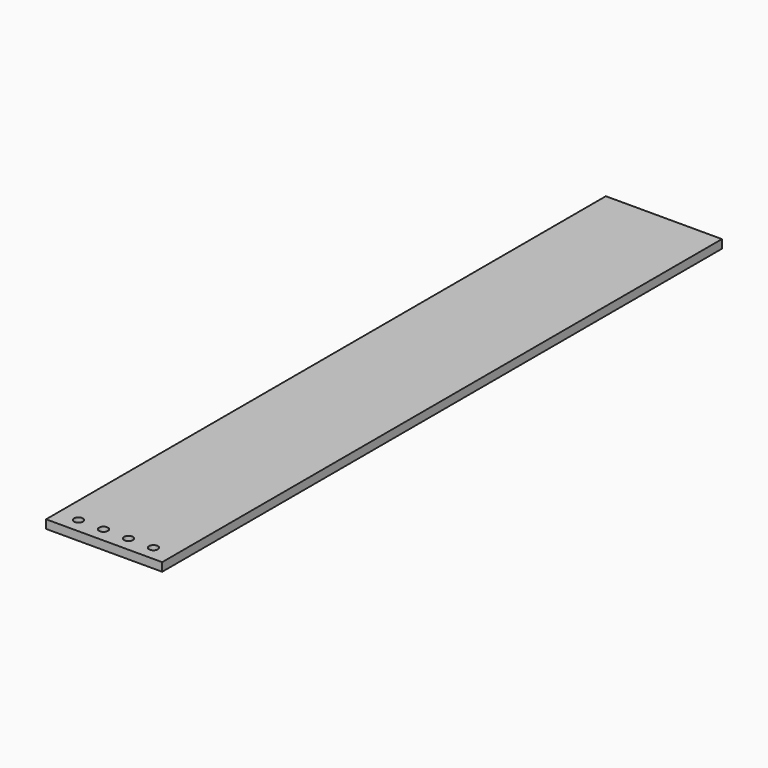
from build123d import *

# Parameters (mm, degrees)
F0_W     = 130.175
F0_H     = 9.525
F1_DEPTH = 784.5
F2_R     = 5
F3_DEPTH = 25


with BuildPart() as f1:
    # F0 (on Front) → F1 (new body)
    with BuildSketch(Plane.XZ):
        with Locations((-13.76359, -24.192462)):
            Rectangle(F0_W, F0_H)
        with Locations((-13.76359, -24.192462)):
            Rectangle(F0_W, F0_H)
    extrude(amount=F1_DEPTH)

    # F2 (on face) → F3 (cut)
    with BuildSketch(Plane.XY.offset(-19.429962)):
        with Locations((-55.81609, -767.875)):
            Circle(F2_R)
        with Locations((-27.78109, -767.875)):
            Circle(F2_R)
        with Locations((0.25391, -767.875)):
            Circle(F2_R)
        with Locations((28.28891, -767.875)):
            Circle(F2_R)
    extrude(amount=-F3_DEPTH, mode=Mode.SUBTRACT)


solid = f1.part
